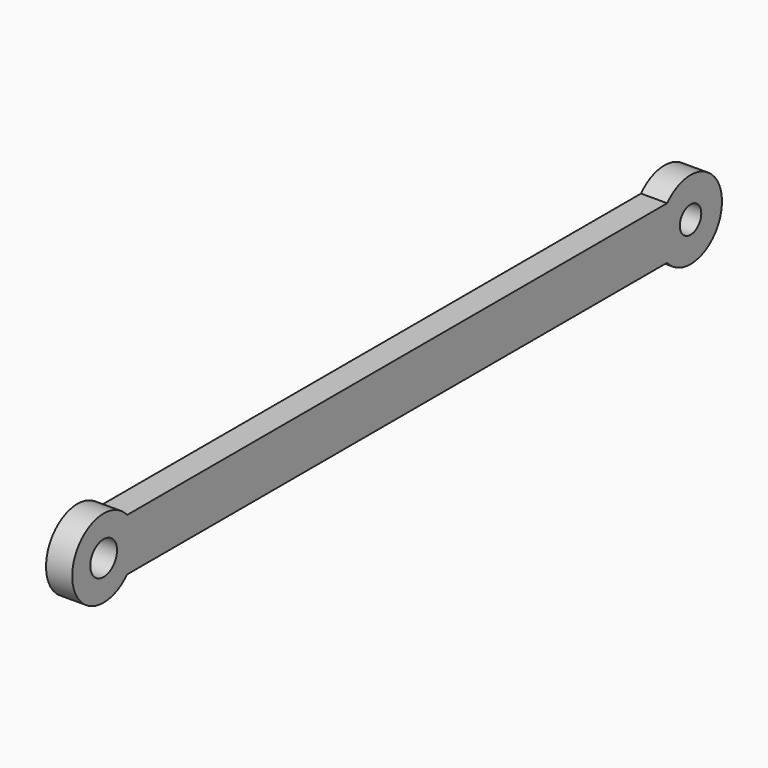
from build123d import *

# Parameters (mm, degrees)
F0_W     = 88.9
F0_H     = 6.35
F1_DEPTH = 3.175
F2_R     = 4.7625
F3_DEPTH = 3.175
F4_R     = 4.7625
F5_DEPTH = 3.175
F6_R     = 2.024984
F6_R_2   = 1.6256
F7_DEPTH = 3.175


with BuildPart() as f1:
    # F0 (on Right) → F1 (new body)
    with BuildSketch(Plane.YZ):
        with Locations((-10.188125, 17.503159)):
            Rectangle(F0_W, F0_H)
    extrude(amount=F1_DEPTH)

    # F2 (on Right) → F3 (join)
    with BuildSketch(Plane.YZ):
        with Locations((-54.662056, 17.522926)):
            Circle(F2_R)
    extrude(amount=F3_DEPTH)

    # F4 (on Right) → F5 (join)
    with BuildSketch(Plane.YZ):
        with Locations((34.302156, 17.490556)):
            Circle(F4_R)
    extrude(amount=F5_DEPTH)

    # F6 (on face) → F7 (cut)
    with BuildSketch(Plane.YZ.offset(3.175)):
        with Locations((-54.662056, 17.522926)):
            Circle(F6_R)
        with Locations((34.302156, 17.490556)):
            Circle(F6_R_2)
    extrude(amount=-F7_DEPTH, mode=Mode.SUBTRACT)


solid = f1.part
